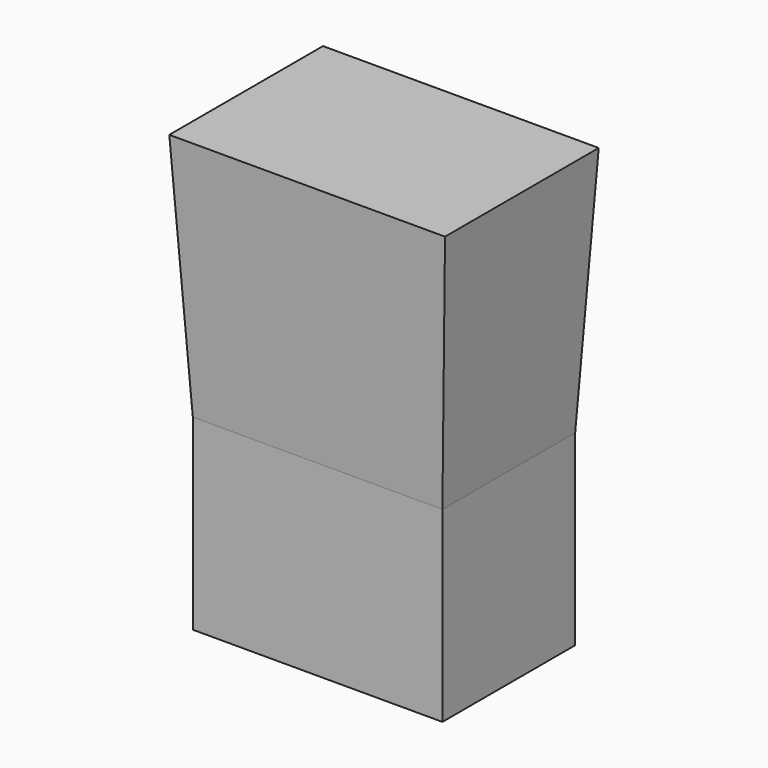
from build123d import *

# Parameters (mm, degrees)
F0_W          = 50.8
F0_H          = 33.782
F1_DEPTH      = 50.8
F1_TAPER      = -3
F1_DEPTH_BACK = 38.1


with BuildPart() as f1:
    # F0 (on Top) → F1 (new body, two sides)
    with BuildSketch(Plane.XY) as f1_sk:
        with Locations((-25.4, 34.7826908746)):
            Rectangle(F0_W, F0_H)
    extrude(amount=F1_DEPTH, taper=F1_TAPER)
    extrude(f1_sk.sketch, amount=-F1_DEPTH_BACK)


solid = f1.part
